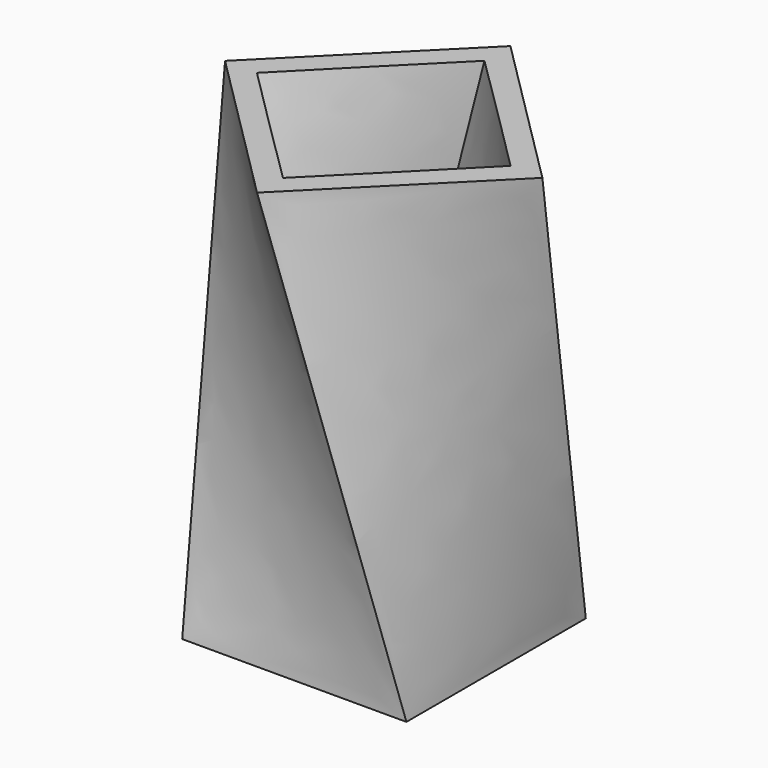
from build123d import *

# Parameters (mm, degrees)
F0_W = 50.8
F0_H = 50.8
F4_T = -5.08


with BuildPart() as f3:
    # F0 (on Top) → F3 section 0
    with BuildSketch(Plane.XY):
        Rectangle(F0_W, F0_H)
    # F2 (on offset) → F3 section 1
    with BuildSketch(Plane.XY.offset(101.6)):
        Polygon((-0.0698438989, 35.8860855595), (-35.9559294584, -0.0698438989), (0, -35.9559294584), (35.8860855595, 0), align=None)
    loft()

    # F4
    f4_openings = [f3.faces().sort_by_distance(p)[0] for p in [
        (-0.034922, -0.034922, 101.6),
    ]]
    offset(amount=F4_T, openings=f4_openings, kind=Kind.INTERSECTION)


solid = f3.part
